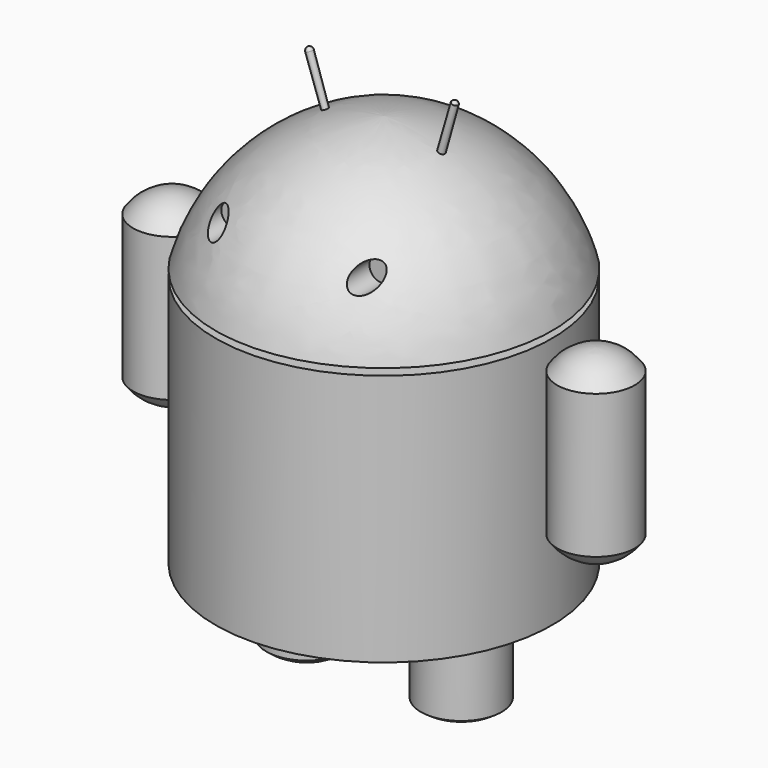
from build123d import *

# Parameters (mm, degrees)
F2_W     = 50
F2_H     = 75
F5_R     = 3.5
F6_DEPTH = 10


with BuildPart() as f1:
    # F0 (on Front) → F1 (revolve)
    with BuildSketch(Plane.XZ):
        with BuildLine():
            Line((0, 0), (0, 40))
            ThreePointArc((0, 40), (-31.4210157847, 28.0262697309), (-50, 0))
            Line((-50, 0), (0, 0))
        make_face()
    revolve(axis=Axis((0, 0, 20), (0, 0, 1)))

    # F5 (on offset) → F6 (cut)
    with BuildSketch(Plane.XZ.offset(38.5)):
        with Locations((-22, 18.6)):
            Circle(F5_R)
        with Locations((22, 18.6)):
            Circle(F5_R)
    extrude(amount=-F6_DEPTH, mode=Mode.SUBTRACT)

    # F8 (on Front) → F9 (revolve)
    with BuildSketch(Plane.XZ):
        with BuildLine():
            Line((-17.4550159842, 36.1342712549), (-22.4306495037, 50.8606663601))
            ThreePointArc((-22.4306495037, 50.8606663601), (-23.0184531971, 50.3485994592), (-23.0941750381, 49.5727180921))
            Line((-23.0941750381, 49.5727180921), (-18.3582659811, 35.8231551945))
            Line((-18.3582659811, 35.8231551945), (-17.4550159842, 36.1342712549))
        make_face()
    revolve(axis=Axis((-19.9428327439, 0, 43.4974688075), (-0.3200948391, 0, 0.9473855044)))

    # F10 (on Front) → F11 (revolve)
    with BuildSketch(Plane.XZ):
        with BuildLine():
            Line((15.0750350539, 29.0522504609), (21.2862093787, 50.8259879006))
            ThreePointArc((21.2862093787, 50.8259879006), (20.6675556932, 50.8141629692), (20.1615016142, 50.4580990975))
            Line((20.1615016142, 50.4580990975), (14.0407863844, 29.3521825471))
            Line((14.0407863844, 29.3521825471), (15.0750350539, 29.0522504609))
        make_face()
    revolve(axis=Axis((18.1806222163, 0, 39.9391191807), (0.2743171328, 0, 0.961639283)))


with BuildPart() as f3:
    # F2 (on Front) → F3 (revolve)
    with BuildSketch(Plane.XZ):
        with Locations((-25, -39.5)):
            Rectangle(F2_W, F2_H)
    revolve(axis=Axis((0, 0, -39.5), (0, 0, 1)))


with BuildPart() as f13:
    # F12 (on Front) → F13 (revolve)
    with BuildSketch(Plane.XZ):
        with BuildLine():
            Line((-62.962662551, -54.9589278415), (-62.962662551, 0))
            ThreePointArc((-62.962662551, 0), (-69.4992968429, -1.6328727025), (-74.5001769332, -6.1478543693))
            Line((-74.5001769332, -6.1478543693), (-74.5001769332, -48.8110734722))
            ThreePointArc((-74.5001769332, -48.8110734722), (-69.4992968429, -53.326055139), (-62.962662551, -54.9589278415))
        make_face()
    revolve(axis=Axis((-62.962662551, 0, -27.4794639208), (0, 0, -1)))


with BuildPart() as f15:
    # F14 (on Front) → F15 (revolve)
    with BuildSketch(Plane.XZ):
        with BuildLine():
            Line((63.0252135333, -55.0500381405), (63.0252135333, 0))
            ThreePointArc((63.0252135333, 0), (56.4742869193, -1.6730418675), (51.487699151, -6.2389646683))
            Line((51.487699151, -6.2389646683), (51.487699151, -48.9021837711))
            ThreePointArc((51.487699151, -48.9021837711), (56.4885792413, -53.417165438), (63.0252135333, -55.0500381405))
        make_face()
    revolve(axis=Axis((63.0252135333, 0, -27.5250190702), (0, 0, -1)))


with BuildPart() as f19:
    # F17 (on Front) → F19 (revolve)
    with BuildSketch(Plane.XZ):
        with BuildLine():
            Line((-34.9650145945, -78), (-34.9650145945, -103.6673218235))
            ThreePointArc((-34.9650145945, -103.6673218235), (-29.360410829, -107.0194033593), (-22.9336561077, -108.1790833768))
            Line((-22.9336561077, -108.1790833768), (-22.8647137556, -78))
            Line((-22.8647137556, -78), (-34.9650145945, -78))
        make_face()
    revolve(axis=Axis((-22.8991849316, 0, -93.0895416884), (-0.0022844356, 0, -0.9999973907)))


with BuildPart() as f20:
    # F18 (on Front) → F20 (revolve)
    with BuildSketch(Plane.XZ):
        with BuildLine():
            Line((22.8994637728, -78), (11, -78))
            Line((11, -78), (11, -104.5951297746))
            ThreePointArc((11, -104.5951297746), (16.5953339677, -107.4294782946), (22.8203721344, -108.1977188587))
            Line((22.8203721344, -108.1977188587), (22.8994637728, -78))
        make_face()
    revolve(axis=Axis((23, 0, -93), (0, 0, -1)))


solid = Compound([f1.part, f3.part, f13.part, f15.part, f19.part, f20.part])
